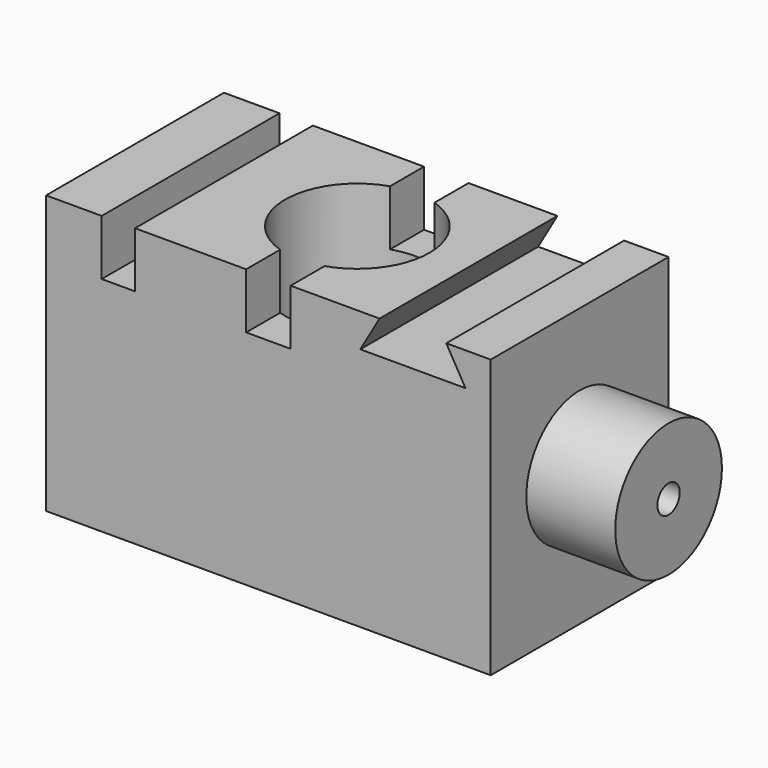
from build123d import *

# Parameters (mm, degrees)
F0_W     = 40
F0_H     = 20
F0_R     = 6.491314
F1_DEPTH = 25
F2_W     = 3
F2_H     = 20
F3_DEPTH = 5
F5_DEPTH = 20.001
F6_R     = 6
F7_DEPTH = 8
F8_R     = 1.258823
F9_DEPTH = 25


with BuildPart() as f1:
    # F0 (on Top) → F1 (new body)
    with BuildSketch(Plane.XY):
        Rectangle(F0_W, F0_H)
        Circle(F0_R, mode=Mode.SUBTRACT)
    extrude(amount=F1_DEPTH)

    # F2 (on face) → F3 (cut)
    with BuildSketch(Plane.XY.offset(25)):
        with Locations((-13.5, 0)):
            Rectangle(F2_W, F2_H)
        with BuildLine():
            Line((2, 10), (-2, 10))
            Line((-2, 10), (-2, 6.175529))
            ThreePointArc((-2, 6.175529), (0, 6.491314), (2, 6.175529))
            Line((2, 6.175529), (2, 10))
        make_face()
        with BuildLine():
            Line((-2, -6.175529), (-2, -10))
            Line((-2, -10), (2, -10))
            Line((2, -10), (2, -6.175529))
            ThreePointArc((2, -6.175529), (0, -6.491314), (-2, -6.175529))
        make_face()
    extrude(amount=-F3_DEPTH, mode=Mode.SUBTRACT)

    # F4 (on face) → F5 (cut, through all)
    with BuildSketch(Plane.XZ.offset(10)):
        Polygon((16, 25), (10, 25), (8.267949, 22), (17.732051, 22), align=None)
    extrude(amount=-F5_DEPTH, mode=Mode.SUBTRACT)

    # F6 (on face) → F7 (join)
    with BuildSketch(Plane.YZ.offset(20)):
        with Locations((0, 12.5)):
            Circle(F6_R)
    extrude(amount=F7_DEPTH)

    # F8 (on face) → F9 (cut)
    with BuildSketch(Plane.YZ.offset(28)):
        with Locations((0, 12.5)):
            Circle(F8_R)
    extrude(amount=-F9_DEPTH, mode=Mode.SUBTRACT)


solid = f1.part
